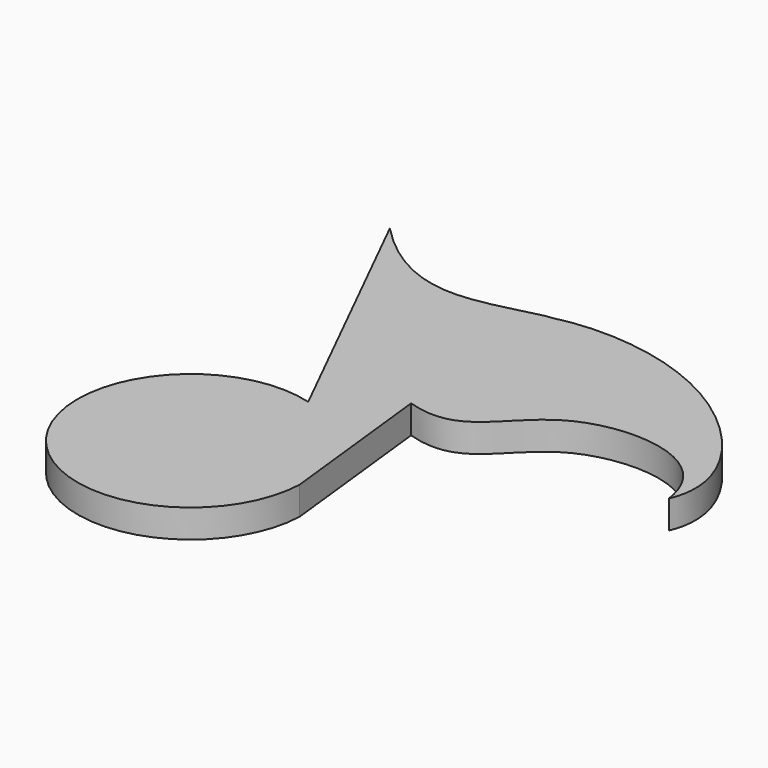
from build123d import *

# Parameters (mm, degrees)
F1_DEPTH = 2


with BuildPart() as f1:
    # F0 (on Top) → F1 (new body)
    with BuildSketch(Plane.XY):
        with BuildLine():
            Line((-13.4334374082, 13.5317500746), (-3.9794810388, -5.5117057066))
            ThreePointArc((-3.9794810388, -5.5117057066), (-12.6259678187, -17.904050911), (1.8466566245, -13.5595031756))
            Line((1.8466566245, -13.5595031756), (0.5703550503, -2.0906010947))
            add(Edge.make_bspline(
                [(0.5703550503, -2.0906010947), (4.9086763909, -3.4807969521), (6.3141694773, 3.9174365207), (18.1261551848, 3.0381855815), (18.8215841278, -2.0906010947)],
                knots=[0, 0, 0, 0, 0.4737528897, 1, 1, 1, 1], degree=3))
            add(Edge.make_bspline(
                [(0.2212580964, 10.754586819), (3.7255176082, 11.6304463403), (13.4283878257, 10.5797945034), (20.3871404348, 1.4419327175), (18.8215841278, -2.0906010947)],
                knots=[0, 0, 0, 0, 0.5069746376, 1, 1, 1, 1], degree=3))
            add(Edge.make_bspline(
                [(-13.4334374082, 13.5317500746), (-11.3683972236, 11.3842489957), (-6.8318207124, 8.2676403977), (-0.8458593943, 10.7098537838), (0.2212580964, 10.754586819)],
                knots=[0, 0, 0, 0, 0.5306283003, 1, 1, 1, 1], degree=3))
        make_face()
    extrude(amount=F1_DEPTH)


solid = f1.part
